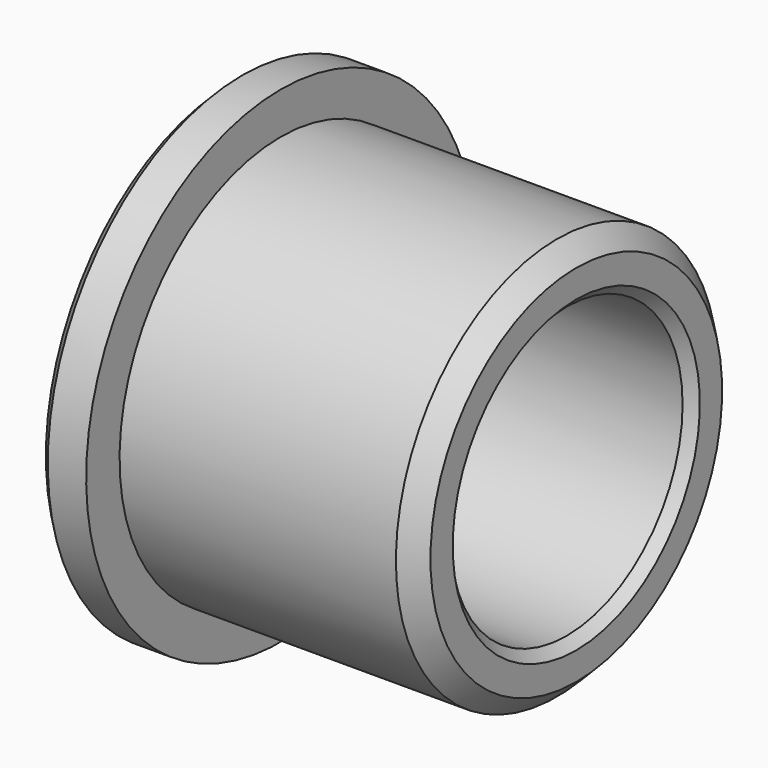
from build123d import *

# Parameters (mm, degrees)
F2_SIZE = 1
F3_SIZE = 0.5


with BuildPart() as f1:
    # F0 (on Front) → F1 (revolve)
    with BuildSketch(Plane.XZ):
        Polygon((15.4, 10.5), (0, 10.5), (0, 12.675), (-2.5, 12.675), (-2.5, 7.55), (15.4, 7.55), align=None)
    revolve(axis=Axis((7.2899, 0, 0), (1, 0, 0)))

    # F2
    f2_edges = [f1.edges().sort_by_distance(p)[0] for p in [
        (15.4, 0, -10.5),
    ]]
    chamfer(f2_edges, length=F2_SIZE)

    # F3
    f3_edges = [f1.edges().sort_by_distance(p)[0] for p in [
        (-2.5, 0, -12.675),
        (-2.5, 0, -7.55),
        (15.4, 0, -7.55),
    ]]
    chamfer(f3_edges, length=F3_SIZE)


solid = f1.part
